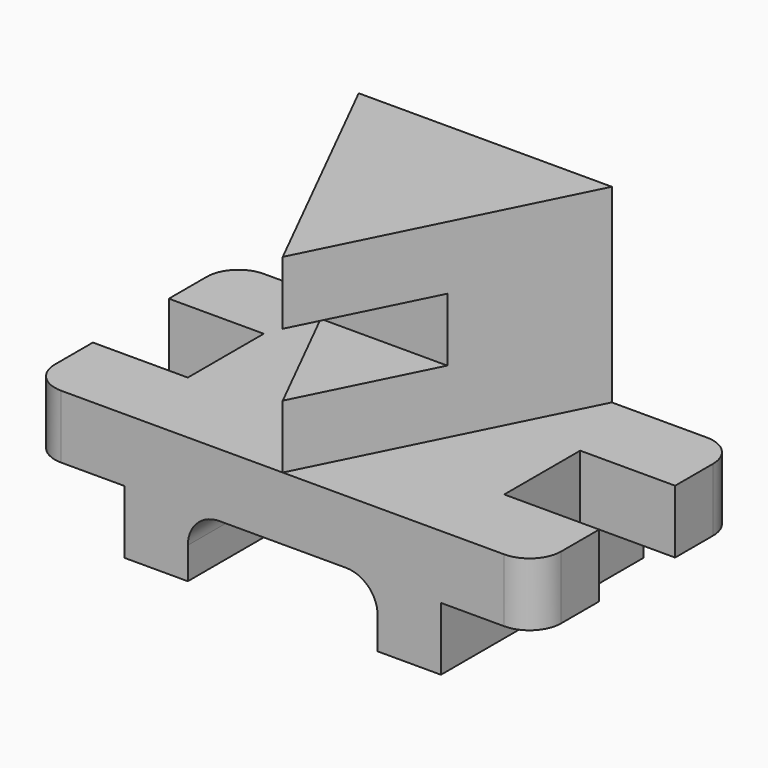
from build123d import *

# Parameters (mm, degrees)
F1_DEPTH = 50.8
F2_W     = 38.1
F2_H     = 25.4
F3_DEPTH = 19.05
F4_R     = 12.7
F5_R     = 12.7
F7_DEPTH = 76.2
F8_W     = 50.8
F8_H     = 25.4
F9_DEPTH = 25.4


with BuildPart() as f1:
    # F0 (on Front) → F1 (new body, symmetric)
    with BuildSketch(Plane.XZ):
        Polygon((101.6, 50.8), (-101.6, 50.8), (-101.6, 25.4), (-63.5, 25.4), (-63.5, 0), (-38.1, 0), (-38.1, 25.4), (38.1, 25.4), (38.1, 0), (63.5, 0), (63.5, 25.4), (101.6, 25.4), align=None)
    extrude(amount=F1_DEPTH, both=True)

    # F2 (on Front) → F3 (cut, symmetric)
    with BuildSketch(Plane.XZ):
        with Locations((-82.55, 38.1)):
            Rectangle(F2_W, F2_H)
        with Locations((82.55, 38.1)):
            Rectangle(F2_W, F2_H)
    extrude(amount=F3_DEPTH, both=True, mode=Mode.SUBTRACT)

    # F4
    f4_edges = [f1.edges().sort_by_distance(p)[0] for p in [
        (101.6, -50.8, 38.1),
        (101.6, 50.8, 38.1),
        (-101.6, -50.8, 38.1),
        (-101.6, 50.8, 38.1),
    ]]
    fillet(f4_edges, radius=F4_R)

    # F5
    f5_edges = [f1.edges().sort_by_distance(p)[0] for p in [
        (38.1, 0, 25.4),
        (-38.1, 0, 25.4),
    ]]
    fillet(f5_edges, radius=F5_R)

    # F6 (on face) → F7 (join)
    with BuildSketch(Plane.XY.offset(50.8)):
        Polygon((-50.8, 50.8), (0, -50.8), (50.8, 50.8), align=None)
    extrude(amount=F7_DEPTH)

    # F8 (on Right) → F9 (cut, symmetric)
    with BuildSketch(Plane.YZ):
        with Locations((-25.4, 88.9)):
            Rectangle(F8_W, F8_H)
    extrude(amount=F9_DEPTH, both=True, mode=Mode.SUBTRACT)


solid = f1.part
